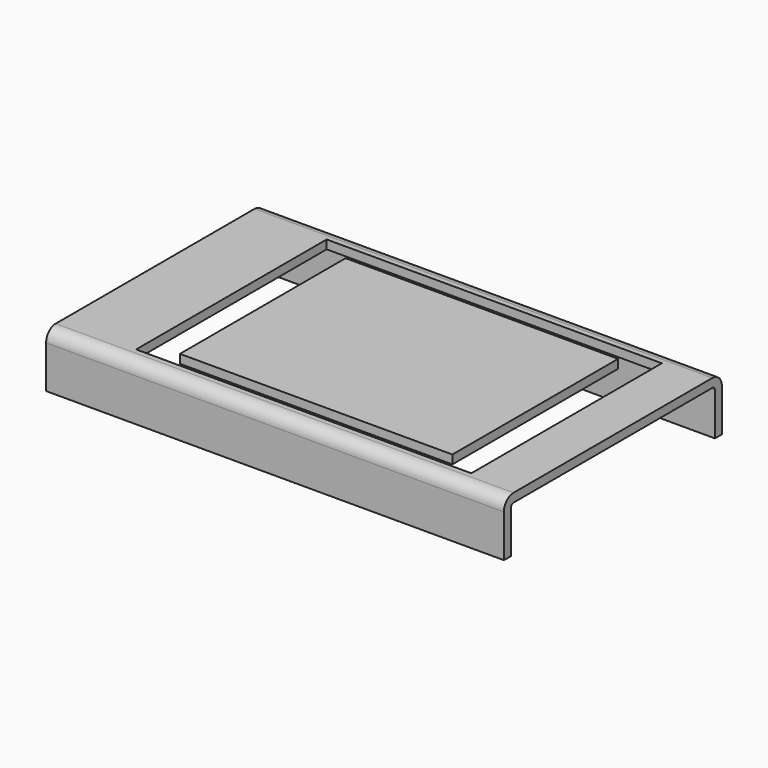
from build123d import *

# Parameters (mm, degrees)
F1_DEPTH = 84
F2_W     = 61.5
F2_H     = 43.7
F3_DEPTH = 1.6


with BuildPart() as f1:
    # F0 (on Right) → F1 (new body)
    with BuildSketch(Plane.YZ):
        with BuildLine():
            Line((47.8, 20), (2.2, 20))
            ThreePointArc((2.2, 20), (0.644365, 19.355635), (0, 17.8))
            Line((0, 17.8), (0, 10))
            Line((0, 10), (1.6, 10))
            Line((1.6, 10), (1.6, 17.8))
            ThreePointArc((1.6, 17.8), (1.775736, 18.224264), (2.2, 18.4))
            Line((2.2, 18.4), (47.8, 18.4))
            ThreePointArc((47.8, 18.4), (48.224264, 18.224264), (48.4, 17.8))
            Line((48.4, 17.8), (48.4, 10))
            Line((48.4, 10), (50, 10))
            Line((50, 10), (50, 17.8))
            ThreePointArc((50, 17.8), (49.355635, 19.355635), (47.8, 20))
        make_face()
    extrude(amount=-F1_DEPTH)

    # F2 (on face) → F3 (cut, through all)
    with BuildSketch(Plane.XY.offset(20)):
        with Locations((-39.25, 25)):
            Rectangle(F2_W, F2_H)
        Polygon((-64.25, 6), (-64.25, 44), (-48.263893, 44), (-24.203168, 44), (-14.25, 44), (-14.25, 6), align=None, mode=Mode.SUBTRACT)
    extrude(amount=-F3_DEPTH, mode=Mode.SUBTRACT)


solid = f1.part
